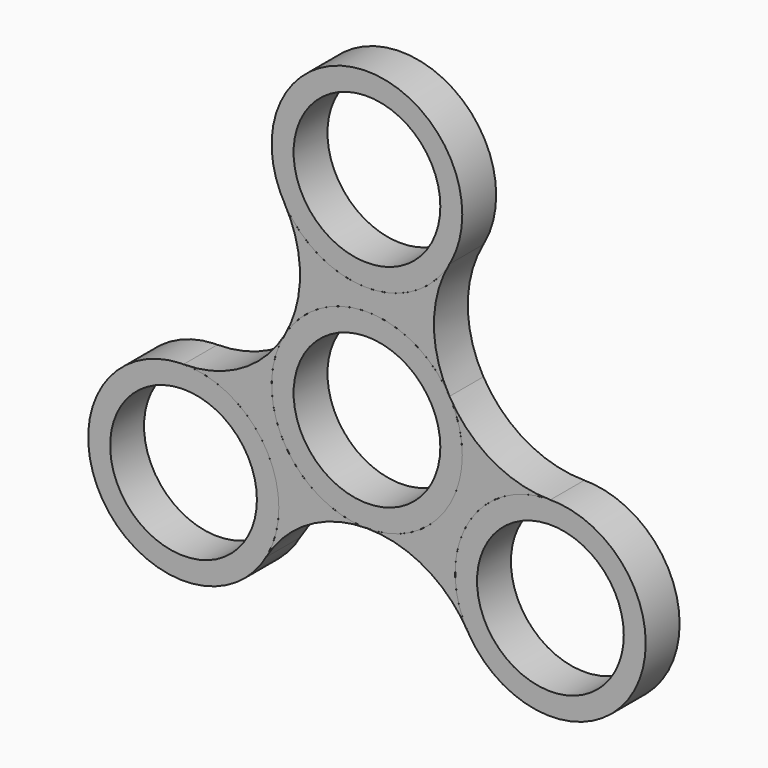
from build123d import *

# Parameters (mm, degrees)
F2_DEPTH = 6.35
F0_R     = 14.2875
F0_R_2   = 10.9982
F3_DEPTH = 6.35


with BuildPart() as f2:
    # F1 (on Front) → F2 (new body)
    with BuildSketch(Plane.XZ):
        with BuildLine():
            ThreePointArc((12.373338, 24.60625), (0, 17.4625), (-12.373338, 24.60625))
            ThreePointArc((-12.373338, 24.60625), (-10.033807, 15.875), (-12.373338, 7.14375))
            ThreePointArc((-12.373338, 7.14375), (0, 14.2875), (12.373338, 7.14375))
            ThreePointArc((12.373338, 7.14375), (10.033807, 15.875), (12.373338, 24.60625))
        make_face()
        with BuildLine():
            ThreePointArc((27.496307, -1.5875), (18.765057, 0.752031), (12.373338, 7.14375))
            ThreePointArc((12.373338, 7.14375), (13.800665, 3.697877), (14.2875, 0))
            ThreePointArc((14.2875, 0), (10.102788, -10.102788), (0, -14.2875))
            ThreePointArc((0, -14.2875), (8.73125, -16.627031), (15.122969, -23.01875))
            ThreePointArc((15.122969, -23.01875), (15.122969, -8.73125), (27.496307, -1.5875))
        make_face()
        with BuildLine():
            ThreePointArc((0, -14.2875), (-12.373338, -7.14375), (-12.373338, 7.14375))
            ThreePointArc((-12.373338, 7.14375), (-18.765057, 0.752031), (-27.496307, -1.5875))
            ThreePointArc((-27.496307, -1.5875), (-17.393518, -5.772212), (-13.208807, -15.875))
            ThreePointArc((-13.208807, -15.875), (-13.695641, -19.572877), (-15.122969, -23.01875))
            ThreePointArc((-15.122969, -23.01875), (-8.73125, -16.627031), (0, -14.2875))
        make_face()
    extrude(amount=F2_DEPTH)


with BuildPart() as f3:
    # F0 (on Front) → F3 (new body)
    with BuildSketch(Plane.XZ):
        Circle(F0_R)
        Circle(F0_R_2, mode=Mode.SUBTRACT)
        with Locations((0, 31.75)):
            Circle(F0_R)
        with Locations((0, 31.75)):
            Circle(F0_R_2, mode=Mode.SUBTRACT)
        with Locations((-27.496307, -15.875)):
            Circle(F0_R)
        with Locations((-27.496307, -15.875)):
            Circle(F0_R_2, mode=Mode.SUBTRACT)
        with Locations((27.496307, -15.875)):
            Circle(F0_R)
        with Locations((27.496307, -15.875)):
            Circle(F0_R_2, mode=Mode.SUBTRACT)
    extrude(amount=F3_DEPTH)


solid = Compound([f2.part, f3.part])
